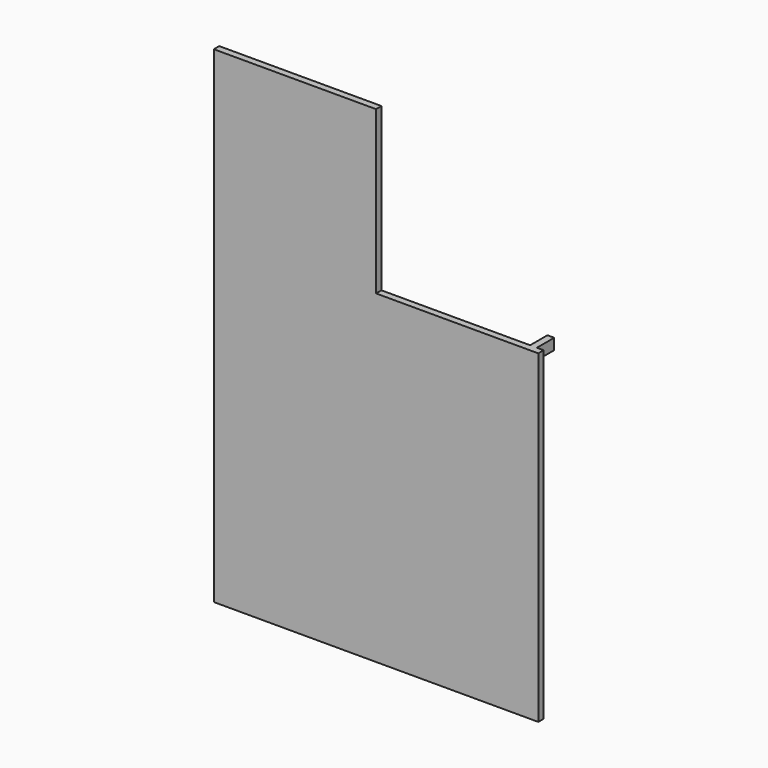
from build123d import *

# Parameters (mm, degrees)
F0_W     = 152.4
F0_H     = 228.6
F1_DEPTH = 1.5875
F2_W     = 76.2
F2_H     = 76.2
F3_DEPTH = 3.176
F4_W     = 3.175
F4_H     = 5.1537374914
F5_DEPTH = 10.16


with BuildPart() as f1:
    # F0 (on Front) → F1 (new body, symmetric)
    with BuildSketch(Plane.XZ):
        Rectangle(F0_W, F0_H)
    extrude(amount=F1_DEPTH, both=True)

    # F2 (on face) → F3 (cut, through all)
    with BuildSketch(Plane.XZ.offset(1.5875)):
        with Locations((38.1, 76.2)):
            Rectangle(F2_W, F2_H)
    extrude(amount=-F3_DEPTH, mode=Mode.SUBTRACT)

    # F4 (on face) → F5 (join)
    with BuildSketch(Plane(origin=(0, 1.5875, 0), x_dir=(-1, 0, 0), z_dir=(0, 1, 0))):
        with Locations((-71.4375, 35.5231312543)):
            Rectangle(F4_W, F4_H)
    extrude(amount=F5_DEPTH)


solid = f1.part
